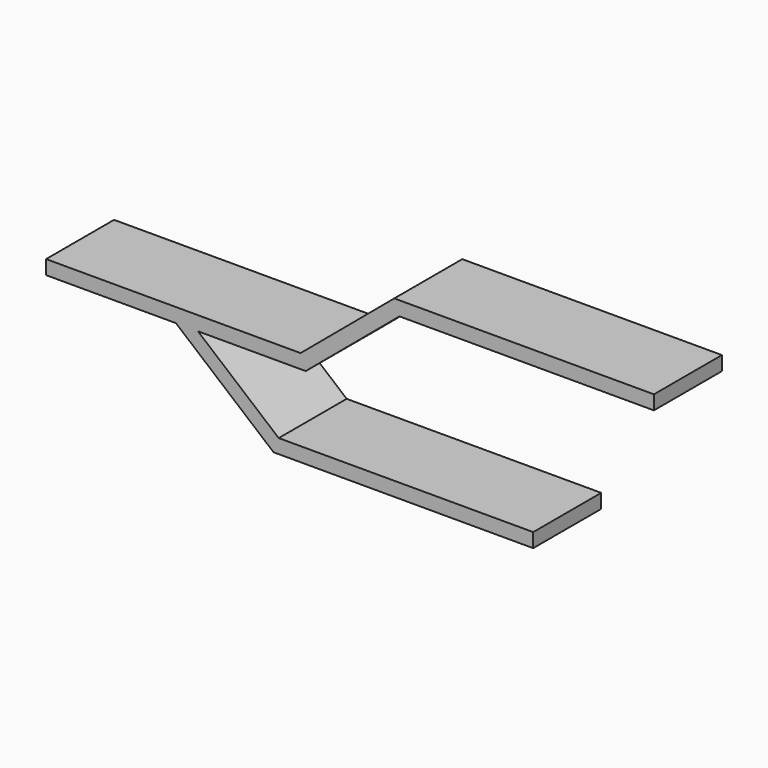
from build123d import *

# Parameters (mm, degrees)
F1_DEPTH = 180


with BuildPart() as f1:
    # F0 (on Front) → F1 (new body)
    with BuildSketch(Plane.XZ):
        Polygon((0, 0), (0, -30), (275, -30), (321.671715, -30), (550, -30), (539.080893, 0), align=None)
        Polygon((321.671715, -30), (275, -30), (481.832, -203.552655), (492.751107, -173.552655), align=None)
        Polygon((737.548371, 166.533988), (539.080893, 0), (550, -30), (748.467478, 136.533988), align=None)
        Polygon((492.751107, -173.552655), (481.832, -203.552655), (1031.832, -203.552655), (1031.832, -173.552655), align=None)
        Polygon((1287.548371, 166.533988), (737.548371, 166.533988), (748.467478, 136.533988), (1287.548371, 136.533988), align=None)
    extrude(amount=F1_DEPTH)


solid = f1.part
